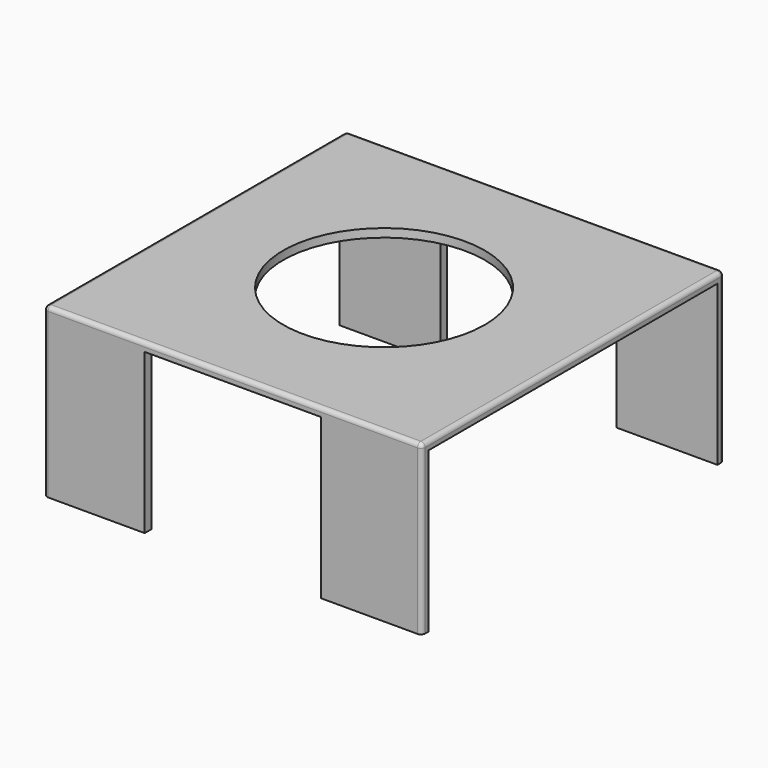
from build123d import *

# Parameters (mm, degrees)
CYLINDER_R     = 1.2
CYLINDER_DEPTH = 2
BOX008_W       = 1.2
BOX008_H       = 0.1
BOX008_DEPTH   = 2
BOX002_W       = 1.2
BOX002_H       = 0.1
BOX002_DEPTH   = 2
BOX001_W       = 1.2
BOX001_H       = 0.1
BOX001_DEPTH   = 2
BOX007_W       = 1.2
BOX007_H       = 0.1
BOX007_DEPTH   = 2
BOX_W          = 4.5
BOX_H          = 4.5
BOX_DEPTH      = 0.1
FILLET001_R    = 0.05
FILLET002_R    = 0.05
FILLET003_R    = 0.05
FILLET004_R    = 0.05


with BuildPart() as cylinder:
    # Cylinder → Cylinder (new body)
    with BuildSketch(Plane.XY.offset(1)):
        Circle(CYLINDER_R)
    extrude(amount=CYLINDER_DEPTH)


with BuildPart() as kub008:
    # Box008 → Box008 (new body)
    with BuildSketch(Plane(origin=(-2.25, -2.25, 0.5), x_dir=(1, 0, 0), z_dir=(0, 0, 1))):
        with Locations((0.6, 0.05)):
            Rectangle(BOX008_W, BOX008_H)
    extrude(amount=BOX008_DEPTH)


with BuildPart() as kub002:
    # Box002 → Box002 (new body)
    with BuildSketch(Plane(origin=(1.05, 2.15, 0.5), x_dir=(1, 0, 0), z_dir=(0, 0, 1))):
        with Locations((0.6, 0.05)):
            Rectangle(BOX002_W, BOX002_H)
    extrude(amount=BOX002_DEPTH)


with BuildPart() as kub001:
    # Box001 → Box001 (new body)
    with BuildSketch(Plane(origin=(-2.25, 2.15, 0.5), x_dir=(1, 0, 0), z_dir=(0, 0, 1))):
        with Locations((0.6, 0.05)):
            Rectangle(BOX001_W, BOX001_H)
    extrude(amount=BOX001_DEPTH)


with BuildPart() as kub007:
    # Box007 → Box007 (new body)
    with BuildSketch(Plane(origin=(1.05, -2.25, 0.5), x_dir=(1, 0, 0), z_dir=(0, 0, 1))):
        with Locations((0.6, 0.05)):
            Rectangle(BOX007_W, BOX007_H)
    extrude(amount=BOX007_DEPTH)


with BuildPart() as cut004:
    # Box → Box (new body)
    with BuildSketch(Plane(origin=(-2.25, -2.25, 2.4), x_dir=(1, 0, 0), z_dir=(0, 0, 1))):
        with Locations((2.25, 2.25)):
            Rectangle(BOX_W, BOX_H)
    extrude(amount=BOX_DEPTH)

    # Fusion: union Kub007
    add(kub007.part)

    # Fusion001: union Kub001
    add(kub001.part)

    # Fusion002: union Kub002
    add(kub002.part)

    # Fusion003: union Kub008
    add(kub008.part)

    # Fillet001
    fillet001_edges = [cut004.edges().sort_by_distance(p)[0] for p in [
        (-2.25, 0, 2.5),
    ]]
    fillet(fillet001_edges, radius=FILLET001_R)

    # Fillet002
    fillet002_edges = [cut004.edges().sort_by_distance(p)[0] for p in [
        (0, 2.25, 2.5),
    ]]
    fillet(fillet002_edges, radius=FILLET002_R)

    # Fillet003
    fillet003_edges = [cut004.edges().sort_by_distance(p)[0] for p in [
        (2.25, 0, 2.5),
    ]]
    fillet(fillet003_edges, radius=FILLET003_R)

    # Fillet004
    fillet004_edges = [cut004.edges().sort_by_distance(p)[0] for p in [
        (0, -2.25, 2.5),
    ]]
    fillet(fillet004_edges, radius=FILLET004_R)

    # Cut004: cut Cylinder
    add(cylinder.part, mode=Mode.SUBTRACT)


solid = cut004.part
